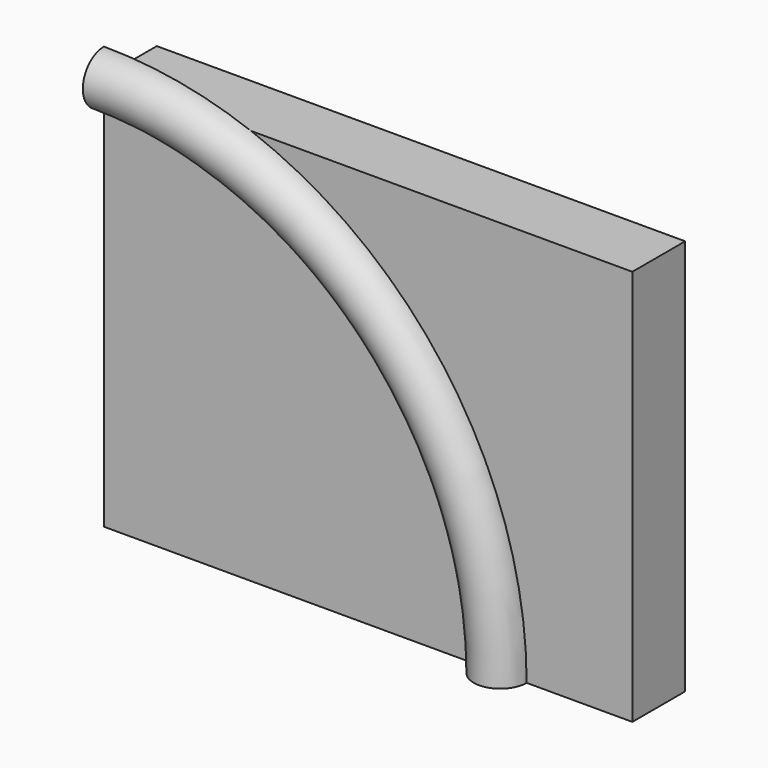
from build123d import *

# Parameters (mm, degrees)
F1_DEPTH = 12.7


with BuildPart() as f1:
    # F0 (on Front) → F1 (new body)
    with BuildSketch(Plane.XZ):
        with BuildLine():
            Line((0, 76.2), (0, 0))
            Line((0, 0), (76.2, 0))
            ThreePointArc((76.2, 0), (53.881537, 53.881537), (0, 76.2))
        make_face()
        with BuildLine():
            ThreePointArc((0, 76.2), (53.881537, 53.881537), (76.2, 0))
            Line((76.2, 0), (101.6, 0))
            Line((101.6, 0), (101.6, 76.2))
            Line((101.6, 76.2), (0, 76.2))
        make_face()
    extrude(amount=F1_DEPTH)

    # F3: sweep along a path in F0
    with BuildLine(Plane.XZ) as f3_path:
        ThreePointArc((0, 76.2), (53.881537, 53.881537), (76.2, 0))
    # F2 (on Top) → F3 (sweep)
    with BuildSketch(Plane.XY):
        with BuildLine():
            Line((76.2, -12.7), (71.12, -12.7))
            ThreePointArc((71.12, -12.7), (76.2, -17.78), (81.28, -12.7))
            Line((81.28, -12.7), (76.2, -12.7))
        make_face()
    sweep(path=f3_path.line)


solid = f1.part
